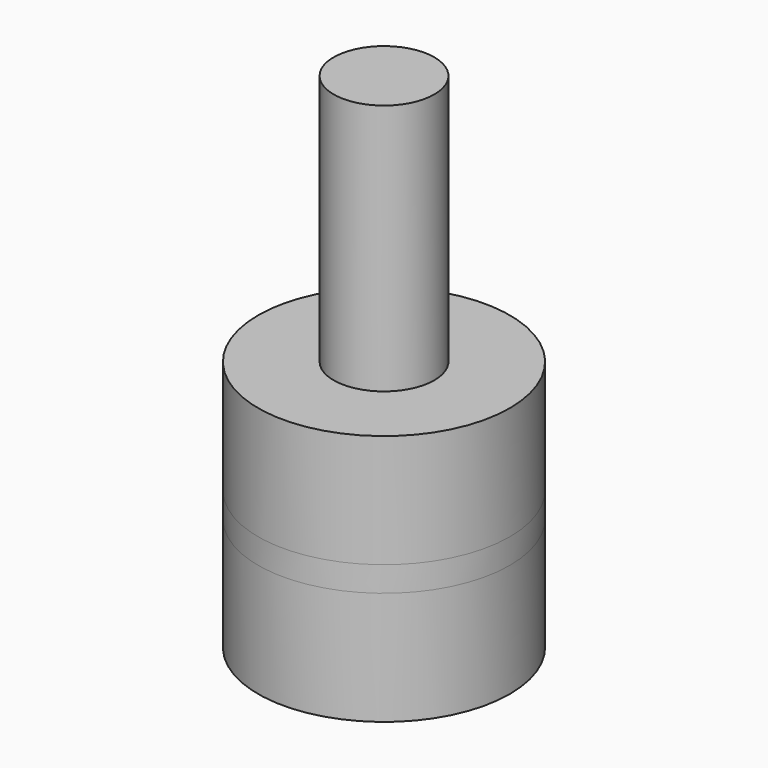
from build123d import *

# Parameters (mm, degrees)
F0_R     = 2.5
F1_DEPTH = 5
F3_R     = 1
F4_DEPTH = 5
F5_R     = 2.5
F5_R_2   = 2.25
F6_DEPTH = 0.25
F7_DEPTH = 0.25


with BuildPart() as f1:
    # F0 (on Top) → F1 (new body)
    with BuildSketch(Plane.XY):
        Circle(F0_R)
    extrude(amount=F1_DEPTH)

    # F3 (on face) → F4 (join)
    with BuildSketch(Plane.XY.offset(5)):
        Circle(F3_R)
    extrude(amount=F4_DEPTH)

    # F5 (on offset) → F6 (cut, symmetric)
    with BuildSketch(Plane.XY.offset(2.5)):
        Circle(F5_R)
        Circle(F5_R_2, mode=Mode.SUBTRACT)
    extrude(amount=F6_DEPTH, both=True, mode=Mode.SUBTRACT)


with BuildPart() as f7:
    # F5 (on offset) → F7 (new body, symmetric)
    with BuildSketch(Plane.XY.offset(2.5)):
        Circle(F5_R)
        Circle(F5_R_2, mode=Mode.SUBTRACT)
    extrude(amount=F7_DEPTH, both=True)


solid = Compound([f1.part, f7.part])
